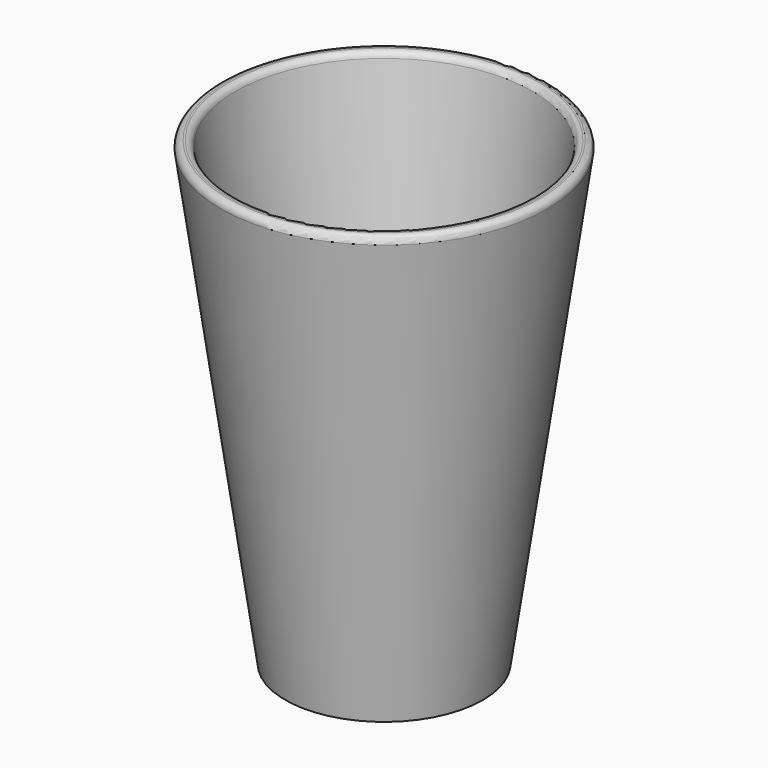
from build123d import *

# Parameters (mm, degrees)
FILLET_R = 1


with BuildPart() as vas_interior:
    # Cone001 → Cone001 (revolve)
    with BuildSketch(Plane(origin=(0, 0, 2), x_dir=(1, 0, 0), z_dir=(0, -1, 0))):
        Polygon((0, 0), (13, 0), (23, 70), (0, 70), align=None)
    revolve(axis=Axis((0, 0, 2), (0, 0, 1)))


with BuildPart() as obj1:
    # Cone → Cone (revolve)
    with BuildSketch(Plane.XZ):
        Polygon((0, 0), (15, 0), (25, 70), (0, 70), align=None)
    revolve(axis=Axis((0, 0, 0), (0, 0, 1)))

    # Cut: cut vas interior
    add(vas_interior.part, mode=Mode.SUBTRACT)

    # Fillet
    fillet_edges = [obj1.edges().sort_by_distance(p)[0] for p in [
        (-25, 0, 70),
        (-22.714286, 0, 70),
    ]]
    fillet(fillet_edges, radius=FILLET_R)


solid = obj1.part
